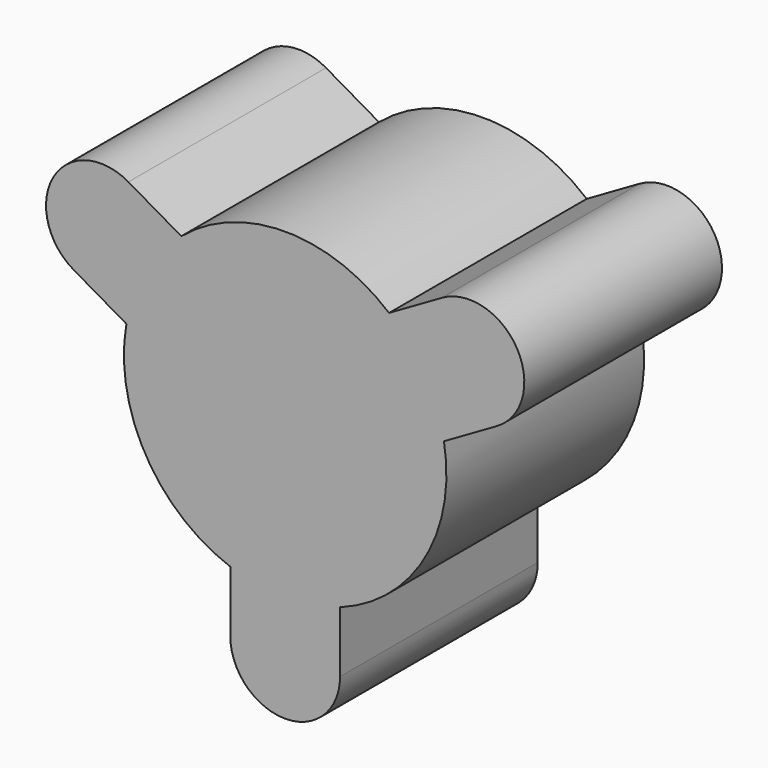
from build123d import *

# Parameters (mm, degrees)
F1_DEPTH      = 28.575
F1_DEPTH_BACK = 28.575


with BuildPart() as f1:
    # F0 (on Front) → F1 (new body, two sides)
    with BuildSketch(Plane.XZ) as f1_sk:
        with BuildLine():
            Line((12.7, -49.2125), (12.7, -35.078003))
            ThreePointArc((12.7, -35.078003), (32.30816, -18.653125), (36.728442, 6.540479))
            Line((36.728442, 6.540479), (48.969275, 13.607727))
            ThreePointArc((48.969275, 13.607727), (53.617798, 30.95625), (36.269275, 35.604773))
            Line((36.269275, 35.604773), (24.028442, 28.537524))
            ThreePointArc((24.028442, 28.537524), (0, 37.30625), (-24.028442, 28.537524))
            Line((-24.028442, 28.537524), (-36.269275, 35.604773))
            ThreePointArc((-36.269275, 35.604773), (-53.617798, 30.95625), (-48.969275, 13.607727))
            Line((-48.969275, 13.607727), (-36.728442, 6.540479))
            ThreePointArc((-36.728442, 6.540479), (-32.30816, -18.653125), (-12.7, -35.078003))
            Line((-12.7, -35.078003), (-12.7, -49.2125))
            ThreePointArc((-12.7, -49.2125), (0, -61.9125), (12.7, -49.2125))
        make_face()
    extrude(amount=F1_DEPTH)
    extrude(f1_sk.sketch, amount=-F1_DEPTH_BACK)


solid = f1.part
